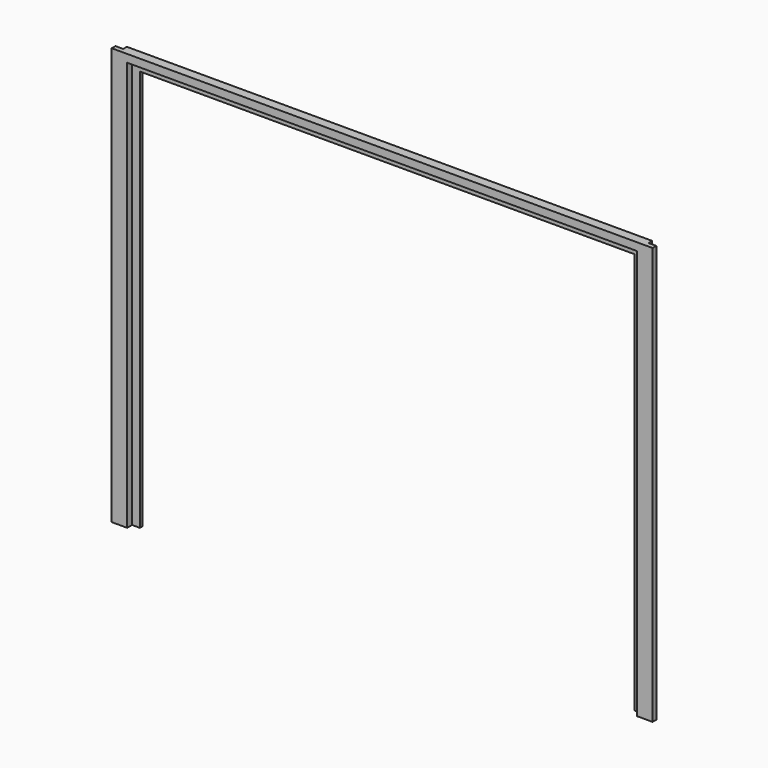
from build123d import *

# Parameters (mm, degrees)
F1_DEPTH = 6
F2_W     = 330
F2_H     = 265
F3_DEPTH = 4
F4_W     = 3
F4_H     = 270
F5_DEPTH = 5
F6_W     = 3
F6_H     = 270
F7_DEPTH = 5


with BuildPart() as f1:
    # F0 (on Front) → F1 (new body)
    with BuildSketch(Plane.XZ):
        Polygon((0, 270), (0, 0), (10, 0), (10, 260), (330, 260), (330, 0), (340, 0), (340, 270), align=None)
    extrude(amount=F1_DEPTH)

    # F2 (on face) → F3 (cut)
    with BuildSketch(Plane.XZ.offset(6)):
        with Locations((170, 132.5)):
            Rectangle(F2_W, F2_H)
    extrude(amount=-F3_DEPTH, mode=Mode.SUBTRACT)

    # F4 (on face) → F5 (join)
    with BuildSketch(Plane(origin=(0, 0, 0), x_dir=(0, -1, 0), z_dir=(-1, 0, 0))):
        with Locations((4.5, 135)):
            Rectangle(F4_W, F4_H)
    extrude(amount=F5_DEPTH)

    # F6 (on face) → F7 (join)
    with BuildSketch(Plane.YZ.offset(340)):
        with Locations((-4.5, 135)):
            Rectangle(F6_W, F6_H)
    extrude(amount=F7_DEPTH)


solid = f1.part
